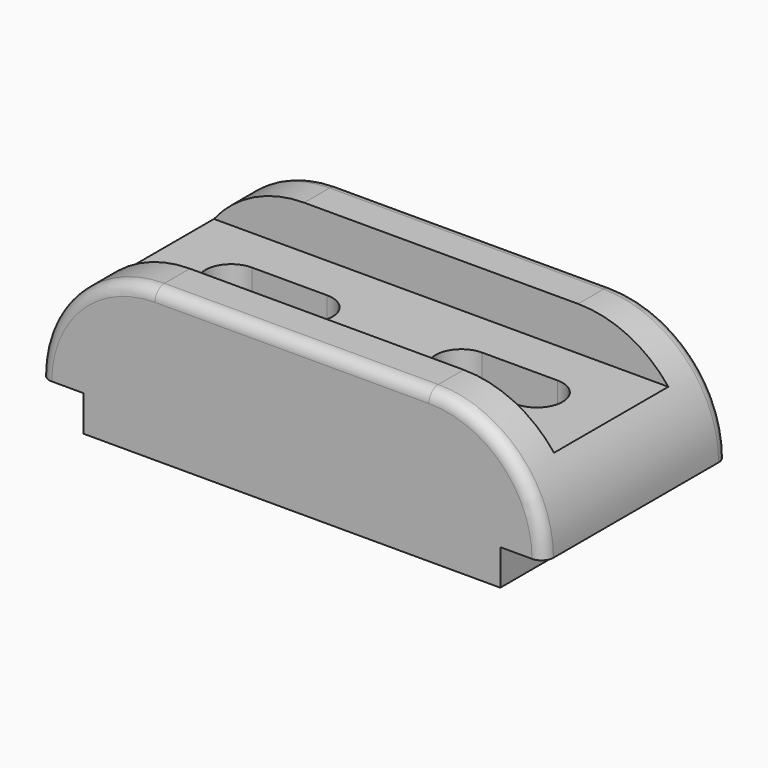
from build123d import *

# Parameters (mm, degrees)
F1_DEPTH = 58
F2_W     = 127
F2_H     = 36
F3_DEPTH = 11
F5_DEPTH = 27.001
F6_R     = 3


with BuildPart() as f1:
    # F0 (on Front) → F1 (new body)
    with BuildSketch(Plane.XZ):
        with BuildLine():
            Line((0, 9), (0, 0))
            Line((0, 0), (105, 0))
            Line((105, 0), (105, 9))
            Line((105, 9), (116, 9))
            ThreePointArc((116, 9), (107.506097, 29.506097), (87, 38))
            Line((87, 38), (18, 38))
            ThreePointArc((18, 38), (-2.506097, 29.506097), (-11, 9))
            Line((-11, 9), (0, 9))
        make_face()
    extrude(amount=F1_DEPTH)

    # F2 (on face) → F3 (cut)
    with BuildSketch(Plane.XY.offset(38)):
        with Locations((52.5, -29)):
            Rectangle(F2_W, F2_H)
    extrude(amount=-F3_DEPTH, mode=Mode.SUBTRACT)

    # F4 (on face) → F5 (cut, through all)
    with BuildSketch(Plane.XY.offset(27)):
        with BuildLine():
            ThreePointArc((14, -22.5), (7.5, -29), (14, -35.5))
            Line((14, -35.5), (33, -35.5))
            ThreePointArc((33, -35.5), (39.5, -29), (33, -22.5))
            Line((33, -22.5), (14, -22.5))
        make_face()
        with BuildLine():
            Line((72, -35.5), (91, -35.5))
            ThreePointArc((91, -35.5), (97.5, -29), (91, -22.5))
            Line((91, -22.5), (72, -22.5))
            ThreePointArc((72, -22.5), (65.5, -29), (72, -35.5))
        make_face()
    extrude(amount=-F5_DEPTH, mode=Mode.SUBTRACT)

    # F6
    f6_edges = [f1.edges().sort_by_distance(p)[0] for p in [
        (52.5, -58, 38),
        (107.506097, 0, 29.506097),
    ]]
    fillet(f6_edges, radius=F6_R)


solid = f1.part
